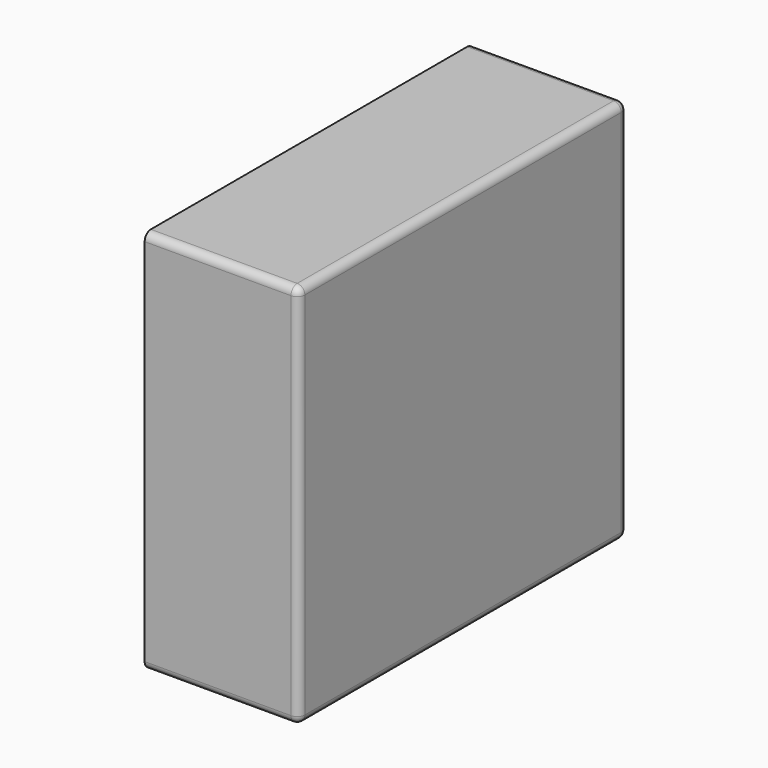
from build123d import *

# Parameters (mm, degrees)
BOX023_W     = 0.6
BOX023_H     = 1.6
BOX023_DEPTH = 1.5
FILLET029_R  = 0.03


with BuildPart() as fillet029:
    # Box023 → Box023 (new body)
    with BuildSketch(Plane.XY):
        with Locations((0.3, 0.8)):
            Rectangle(BOX023_W, BOX023_H)
    extrude(amount=BOX023_DEPTH)

    # Fillet029
    fillet029_edges = [fillet029.edges().sort_by_distance(p)[0] for p in [
        (0, 0, 0.75),
        (0, 0.8, 1.5),
        (0, 1.6, 0.75),
        (0, 0.8, 0),
        (0.3, 0, 0),
        (0.3, 0, 1.5),
        (0.3, 1.6, 0),
        (0.3, 1.6, 1.5),
    ]]
    fillet(fillet029_edges, radius=FILLET029_R)


with BuildPart() as part_mirroring020:
    # Part__Mirroring020: instance of Fillet029
    add(fillet029.part.mirror(Plane(origin=(1.6, 0, 0), x_dir=(0, -1, 0), z_dir=(1, 0, 0))))


solid = part_mirroring020.part
